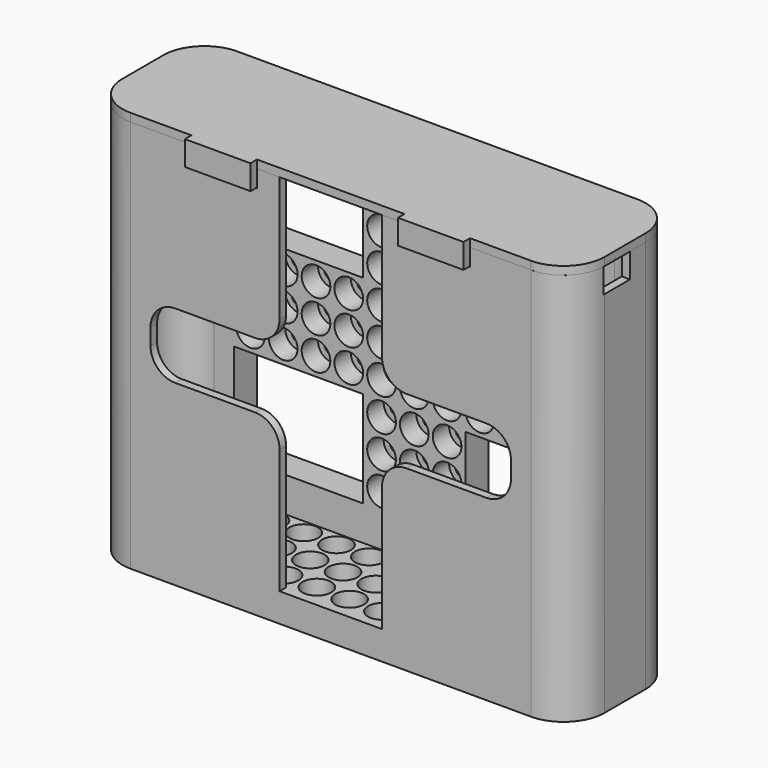
from build123d import *

# Parameters (mm, degrees)
SKETCH_R        = 2
PAD_DEPTH       = 2
SKETCH010_R     = 3.5
PAD008_DEPTH    = 5
PAD009_DEPTH    = 89
SKETCH013_R     = 3.5
SKETCH013_W     = 31.5
SKETCH013_H     = 23.5
POCKET_DEPTH    = 5
SKETCH014_R     = 2
SKETCH014_W     = 31.5
SKETCH014_H     = 23.5
POCKET001_DEPTH = 2
POCKET002_DEPTH = 2
FILLET_R        = 6
FILLET003_R     = 8
FILLET004_R     = 10
SKETCH017_W     = 16
SKETCH017_H     = 2
POCKET003_DEPTH = 2
SKETCH021_W     = 6
SKETCH021_H     = 8
POCKET004_DEPTH = 6
FILLET005_R     = 0.5
PAD010_DEPTH    = 2
SKETCH018_W     = 16
SKETCH018_H     = 2
PAD011_DEPTH    = 4
SKETCH019_W     = 16
SKETCH019_H     = 2
PAD012_DEPTH    = 2
SKETCH020_W     = 16
SKETCH020_H     = 2
PAD013_DEPTH    = 2
CHAMFER_SIZE    = 0.5


with BuildPart() as shell:
    # Sketch → Pad (new body)
    with BuildSketch(Plane.XY):
        Polygon((-58.85, -13.75), (58.85, -13.75), (58.85, 13.75), (58.85, 18.75), (-58.85, 18.75), (-58.85, 13.75), align=None)
        with Locations((8, -8)):
            Circle(SKETCH_R, mode=Mode.SUBTRACT)
        with Locations((16, -8)):
            Circle(SKETCH_R, mode=Mode.SUBTRACT)
        with Locations((24, -8)):
            Circle(SKETCH_R, mode=Mode.SUBTRACT)
        with Locations((32, -8)):
            Circle(SKETCH_R, mode=Mode.SUBTRACT)
        with Locations((40, -8)):
            Circle(SKETCH_R, mode=Mode.SUBTRACT)
        with Locations((48, -8)):
            Circle(SKETCH_R, mode=Mode.SUBTRACT)
        with Locations((48, 0)):
            Circle(SKETCH_R, mode=Mode.SUBTRACT)
        with Locations((40, 0)):
            Circle(SKETCH_R, mode=Mode.SUBTRACT)
        with Locations((32, 0)):
            Circle(SKETCH_R, mode=Mode.SUBTRACT)
        with Locations((24, 0)):
            Circle(SKETCH_R, mode=Mode.SUBTRACT)
        with Locations((16, 0)):
            Circle(SKETCH_R, mode=Mode.SUBTRACT)
        with Locations((8, 0)):
            Circle(SKETCH_R, mode=Mode.SUBTRACT)
        Circle(SKETCH_R, mode=Mode.SUBTRACT)
        with Locations((0, -8)):
            Circle(SKETCH_R, mode=Mode.SUBTRACT)
        with Locations((0, 8)):
            Circle(SKETCH_R, mode=Mode.SUBTRACT)
        with Locations((8, 8)):
            Circle(SKETCH_R, mode=Mode.SUBTRACT)
        with Locations((16, 8)):
            Circle(SKETCH_R, mode=Mode.SUBTRACT)
        with Locations((24, 8)):
            Circle(SKETCH_R, mode=Mode.SUBTRACT)
        with Locations((32, 8)):
            Circle(SKETCH_R, mode=Mode.SUBTRACT)
        with Locations((40, 8)):
            Circle(SKETCH_R, mode=Mode.SUBTRACT)
        with Locations((48, 8)):
            Circle(SKETCH_R, mode=Mode.SUBTRACT)
        with Locations((-8, -8)):
            Circle(SKETCH_R, mode=Mode.SUBTRACT)
        with Locations((-8, 0)):
            Circle(SKETCH_R, mode=Mode.SUBTRACT)
        with Locations((-8, 8)):
            Circle(SKETCH_R, mode=Mode.SUBTRACT)
        with Locations((-16, 8)):
            Circle(SKETCH_R, mode=Mode.SUBTRACT)
        with Locations((-16, 0)):
            Circle(SKETCH_R, mode=Mode.SUBTRACT)
        with Locations((-16, -8)):
            Circle(SKETCH_R, mode=Mode.SUBTRACT)
        with Locations((-24, -8)):
            Circle(SKETCH_R, mode=Mode.SUBTRACT)
        with Locations((-32, -8)):
            Circle(SKETCH_R, mode=Mode.SUBTRACT)
        with Locations((-40, -8)):
            Circle(SKETCH_R, mode=Mode.SUBTRACT)
        with Locations((-48, -8)):
            Circle(SKETCH_R, mode=Mode.SUBTRACT)
        with Locations((-48, 0)):
            Circle(SKETCH_R, mode=Mode.SUBTRACT)
        with Locations((-40, 0)):
            Circle(SKETCH_R, mode=Mode.SUBTRACT)
        with Locations((-32, 0)):
            Circle(SKETCH_R, mode=Mode.SUBTRACT)
        with Locations((-24, 0)):
            Circle(SKETCH_R, mode=Mode.SUBTRACT)
        with Locations((-24, 8)):
            Circle(SKETCH_R, mode=Mode.SUBTRACT)
        with Locations((-32, 8)):
            Circle(SKETCH_R, mode=Mode.SUBTRACT)
        with Locations((-40, 8)):
            Circle(SKETCH_R, mode=Mode.SUBTRACT)
        with Locations((-48, 8)):
            Circle(SKETCH_R, mode=Mode.SUBTRACT)
    extrude(amount=PAD_DEPTH)

    # Sketch010 (on Face43 of Pad) → Pad008 (join)
    with BuildSketch(Plane.XY.offset(2)):
        Polygon((-58.85, -13.75), (58.85, -13.75), (58.85, 13.75), (58.85, 18.75), (-58.85, 18.75), (-58.85, 13.75), align=None)
        with Locations((8, -8)):
            Circle(SKETCH010_R, mode=Mode.SUBTRACT)
        with Locations((16, -8)):
            Circle(SKETCH010_R, mode=Mode.SUBTRACT)
        with Locations((24, -8)):
            Circle(SKETCH010_R, mode=Mode.SUBTRACT)
        with Locations((32, -8)):
            Circle(SKETCH010_R, mode=Mode.SUBTRACT)
        with Locations((40, -8)):
            Circle(SKETCH010_R, mode=Mode.SUBTRACT)
        with Locations((48, -8)):
            Circle(SKETCH010_R, mode=Mode.SUBTRACT)
        with Locations((48, 0)):
            Circle(SKETCH010_R, mode=Mode.SUBTRACT)
        with Locations((40, 0)):
            Circle(SKETCH010_R, mode=Mode.SUBTRACT)
        with Locations((32, 0)):
            Circle(SKETCH010_R, mode=Mode.SUBTRACT)
        with Locations((24, 0)):
            Circle(SKETCH010_R, mode=Mode.SUBTRACT)
        with Locations((16, 0)):
            Circle(SKETCH010_R, mode=Mode.SUBTRACT)
        with Locations((8, 0)):
            Circle(SKETCH010_R, mode=Mode.SUBTRACT)
        Circle(SKETCH010_R, mode=Mode.SUBTRACT)
        with Locations((0, -8)):
            Circle(SKETCH010_R, mode=Mode.SUBTRACT)
        with Locations((0, 8)):
            Circle(SKETCH010_R, mode=Mode.SUBTRACT)
        with Locations((8, 8)):
            Circle(SKETCH010_R, mode=Mode.SUBTRACT)
        with Locations((16, 8)):
            Circle(SKETCH010_R, mode=Mode.SUBTRACT)
        with Locations((24, 8)):
            Circle(SKETCH010_R, mode=Mode.SUBTRACT)
        with Locations((32, 8)):
            Circle(SKETCH010_R, mode=Mode.SUBTRACT)
        with Locations((40, 8)):
            Circle(SKETCH010_R, mode=Mode.SUBTRACT)
        with Locations((48, 8)):
            Circle(SKETCH010_R, mode=Mode.SUBTRACT)
        with Locations((-8, -8)):
            Circle(SKETCH010_R, mode=Mode.SUBTRACT)
        with Locations((-8, 0)):
            Circle(SKETCH010_R, mode=Mode.SUBTRACT)
        with Locations((-8, 8)):
            Circle(SKETCH010_R, mode=Mode.SUBTRACT)
        with Locations((-16, 8)):
            Circle(SKETCH010_R, mode=Mode.SUBTRACT)
        with Locations((-16, 0)):
            Circle(SKETCH010_R, mode=Mode.SUBTRACT)
        with Locations((-16, -8)):
            Circle(SKETCH010_R, mode=Mode.SUBTRACT)
        with Locations((-24, -8)):
            Circle(SKETCH010_R, mode=Mode.SUBTRACT)
        with Locations((-32, -8)):
            Circle(SKETCH010_R, mode=Mode.SUBTRACT)
        with Locations((-40, -8)):
            Circle(SKETCH010_R, mode=Mode.SUBTRACT)
        with Locations((-48, -8)):
            Circle(SKETCH010_R, mode=Mode.SUBTRACT)
        with Locations((-48, 0)):
            Circle(SKETCH010_R, mode=Mode.SUBTRACT)
        with Locations((-40, 0)):
            Circle(SKETCH010_R, mode=Mode.SUBTRACT)
        with Locations((-32, 0)):
            Circle(SKETCH010_R, mode=Mode.SUBTRACT)
        with Locations((-24, 0)):
            Circle(SKETCH010_R, mode=Mode.SUBTRACT)
        with Locations((-24, 8)):
            Circle(SKETCH010_R, mode=Mode.SUBTRACT)
        with Locations((-32, 8)):
            Circle(SKETCH010_R, mode=Mode.SUBTRACT)
        with Locations((-40, 8)):
            Circle(SKETCH010_R, mode=Mode.SUBTRACT)
        with Locations((-48, 8)):
            Circle(SKETCH010_R, mode=Mode.SUBTRACT)
    extrude(amount=PAD008_DEPTH)

    # Sketch011 (on Face81 of Pad008) → Pad009 (join)
    with BuildSketch(Plane.XY.offset(7)):
        Polygon((56.85, -11.75), (56.85, 11.75), (-56.85, 11.75), (-56.85, -11.75), (-12.5, -11.75), (-12.5, -13.75), (-58.85, -13.75), (-58.85, 13.75), (-58.85, 18.75), (58.85, 18.75), (58.85, 13.75), (58.85, -13.75), (12.5, -13.75), (12.5, -11.75), align=None)
    extrude(amount=PAD009_DEPTH)

    # Sketch013 (on Face86 of Pad009) → Pocket (cut)
    with BuildSketch(Plane.XZ.offset(-11.75)):
        with Locations((0, 59.5)):
            Circle(SKETCH013_R)
        with Locations((0, 51.5)):
            Circle(SKETCH013_R)
        with Locations((8, 51.5)):
            Circle(SKETCH013_R)
        with Locations((16, 51.5)):
            Circle(SKETCH013_R)
        with Locations((24, 51.5)):
            Circle(SKETCH013_R)
        with Locations((32, 51.5)):
            Circle(SKETCH013_R)
        with Locations((-40, 51.5)):
            Circle(SKETCH013_R)
        with Locations((-32, 51.5)):
            Circle(SKETCH013_R)
        with Locations((-24, 51.5)):
            Circle(SKETCH013_R)
        with Locations((-16, 51.5)):
            Circle(SKETCH013_R)
        with Locations((-8, 51.5)):
            Circle(SKETCH013_R)
        with Locations((8, 35.5)):
            Circle(SKETCH013_R)
        with Locations((-8, 35.5)):
            Circle(SKETCH013_R)
        with Locations((0, 27.5)):
            Circle(SKETCH013_R)
        with Locations((-8, 19.5)):
            Circle(SKETCH013_R)
        with Locations((8, 19.5)):
            Circle(SKETCH013_R)
        with Locations((8, 67.5)):
            Circle(SKETCH013_R)
        with Locations((-8, 67.5)):
            Circle(SKETCH013_R)
        with Locations((0, 75.5)):
            Circle(SKETCH013_R)
        with Locations((-8, 83.5)):
            Circle(SKETCH013_R)
        with Locations((8, 83.5)):
            Circle(SKETCH013_R)
        with Locations((40, 51.5)):
            Circle(SKETCH013_R)
        with Locations((8, 59.5)):
            Circle(SKETCH013_R)
        with Locations((16, 59.5)):
            Circle(SKETCH013_R)
        with Locations((24, 59.5)):
            Circle(SKETCH013_R)
        with Locations((32, 59.5)):
            Circle(SKETCH013_R)
        with Locations((40, 59.5)):
            Circle(SKETCH013_R)
        with Locations((40, 43.5)):
            Circle(SKETCH013_R)
        with Locations((32, 43.5)):
            Circle(SKETCH013_R)
        with Locations((24, 43.5)):
            Circle(SKETCH013_R)
        with Locations((16, 43.5)):
            Circle(SKETCH013_R)
        with Locations((8, 43.5)):
            Circle(SKETCH013_R)
        with Locations((-8, 43.5)):
            Circle(SKETCH013_R)
        with Locations((-16, 43.5)):
            Circle(SKETCH013_R)
        with Locations((-24, 43.5)):
            Circle(SKETCH013_R)
        with Locations((-32, 43.5)):
            Circle(SKETCH013_R)
        with Locations((-40, 43.5)):
            Circle(SKETCH013_R)
        with Locations((-40, 59.5)):
            Circle(SKETCH013_R)
        with Locations((-32, 59.5)):
            Circle(SKETCH013_R)
        with Locations((-24, 59.5)):
            Circle(SKETCH013_R)
        with Locations((-16, 59.5)):
            Circle(SKETCH013_R)
        with Locations((-8, 59.5)):
            Circle(SKETCH013_R)
        with Locations((-8, 27.5)):
            Circle(SKETCH013_R)
        with Locations((0, 35.5)):
            Circle(SKETCH013_R)
        with Locations((8, 27.5)):
            Circle(SKETCH013_R)
        with Locations((0, 43.5)):
            Circle(SKETCH013_R)
        with Locations((-8, 75.5)):
            Circle(SKETCH013_R)
        with Locations((0, 83.5)):
            Circle(SKETCH013_R)
        with Locations((8, 75.5)):
            Circle(SKETCH013_R)
        with Locations((0, 67.5)):
            Circle(SKETCH013_R)
        with Locations((0, 19.5)):
            Circle(SKETCH013_R)
        with Locations((-28.25, 75.75)):
            Rectangle(SKETCH013_W, SKETCH013_H)
        with Locations((-28.25, 27.25)):
            Rectangle(SKETCH013_W, SKETCH013_H)
        with Locations((28.25, 27.25)):
            Rectangle(SKETCH013_W, SKETCH013_H)
        with Locations((28.25, 75.75)):
            Rectangle(SKETCH013_W, SKETCH013_H)
    extrude(amount=-POCKET_DEPTH, mode=Mode.SUBTRACT)

    # Sketch014 (on Face130 of Pad009) → Pocket001 (cut)
    with BuildSketch(Plane(origin=(0, 18.75, 0), x_dir=(-1, 0, 0), z_dir=(0, 1, 0))):
        with Locations((0, 51.5)):
            Circle(SKETCH014_R)
        with Locations((0, 59.5)):
            Circle(SKETCH014_R)
        with Locations((-8, 67.5)):
            Circle(SKETCH014_R)
        with Locations((0, 75.5)):
            Circle(SKETCH014_R)
        with Locations((8, 67.5)):
            Circle(SKETCH014_R)
        with Locations((8, 83.5)):
            Circle(SKETCH014_R)
        with Locations((-8, 83.5)):
            Circle(SKETCH014_R)
        with Locations((-8, 51.5)):
            Circle(SKETCH014_R)
        with Locations((-16, 51.5)):
            Circle(SKETCH014_R)
        with Locations((-24, 51.5)):
            Circle(SKETCH014_R)
        with Locations((-32, 51.5)):
            Circle(SKETCH014_R)
        with Locations((-40, 51.5)):
            Circle(SKETCH014_R)
        with Locations((8, 51.5)):
            Circle(SKETCH014_R)
        with Locations((16, 51.5)):
            Circle(SKETCH014_R)
        with Locations((24, 51.5)):
            Circle(SKETCH014_R)
        with Locations((32, 51.5)):
            Circle(SKETCH014_R)
        with Locations((40, 51.5)):
            Circle(SKETCH014_R)
        with Locations((0, 43.5)):
            Circle(SKETCH014_R)
        with Locations((-8, 35.5)):
            Circle(SKETCH014_R)
        with Locations((8, 35.5)):
            Circle(SKETCH014_R)
        with Locations((0, 27.5)):
            Circle(SKETCH014_R)
        with Locations((-8, 19.5)):
            Circle(SKETCH014_R)
        with Locations((8, 19.5)):
            Circle(SKETCH014_R)
        with Locations((-8, 75.5)):
            Circle(SKETCH014_R)
        with Locations((8, 75.5)):
            Circle(SKETCH014_R)
        with Locations((0, 67.5)):
            Circle(SKETCH014_R)
        with Locations((8, 59.5)):
            Circle(SKETCH014_R)
        with Locations((-8, 59.5)):
            Circle(SKETCH014_R)
        with Locations((-8, 27.5)):
            Circle(SKETCH014_R)
        with Locations((8, 27.5)):
            Circle(SKETCH014_R)
        with Locations((0, 35.5)):
            Circle(SKETCH014_R)
        with Locations((-8, 43.5)):
            Circle(SKETCH014_R)
        with Locations((8, 43.5)):
            Circle(SKETCH014_R)
        with Locations((16, 59.5)):
            Circle(SKETCH014_R)
        with Locations((24, 59.5)):
            Circle(SKETCH014_R)
        with Locations((32, 59.5)):
            Circle(SKETCH014_R)
        with Locations((40, 59.5)):
            Circle(SKETCH014_R)
        with Locations((-16, 59.5)):
            Circle(SKETCH014_R)
        with Locations((-24, 59.5)):
            Circle(SKETCH014_R)
        with Locations((-32, 59.5)):
            Circle(SKETCH014_R)
        with Locations((-40, 59.5)):
            Circle(SKETCH014_R)
        with Locations((-40, 43.5)):
            Circle(SKETCH014_R)
        with Locations((-32, 43.5)):
            Circle(SKETCH014_R)
        with Locations((-24, 43.5)):
            Circle(SKETCH014_R)
        with Locations((-16, 43.5)):
            Circle(SKETCH014_R)
        with Locations((16, 43.5)):
            Circle(SKETCH014_R)
        with Locations((24, 43.5)):
            Circle(SKETCH014_R)
        with Locations((32, 43.5)):
            Circle(SKETCH014_R)
        with Locations((40, 43.5)):
            Circle(SKETCH014_R)
        with Locations((0, 19.5)):
            Circle(SKETCH014_R)
        with Locations((0, 83.5)):
            Circle(SKETCH014_R)
        with Locations((-28.25, 75.75)):
            Rectangle(SKETCH014_W, SKETCH014_H)
        with Locations((-28.25, 27.25)):
            Rectangle(SKETCH014_W, SKETCH014_H)
        with Locations((28.25, 27.25)):
            Rectangle(SKETCH014_W, SKETCH014_H)
        with Locations((28.25, 75.75)):
            Rectangle(SKETCH014_W, SKETCH014_H)
    extrude(amount=-POCKET001_DEPTH, mode=Mode.SUBTRACT)

    # Sketch015 (on Face2 of Pocket001) → Pocket002 (cut)
    with BuildSketch(Plane.XZ.offset(13.75)):
        with BuildLine():
            Line((-38, 43.5), (38, 43.5))
            ThreePointArc((38, 43.5), (42.242641, 45.257359), (44, 49.5))
            Line((44, 49.5), (44, 53.5))
            ThreePointArc((44, 53.5), (42.242641, 57.742641), (38, 59.5))
            Line((38, 59.5), (-38, 59.5))
            ThreePointArc((-38, 59.5), (-42.242641, 57.742641), (-44, 53.5))
            Line((-44, 53.5), (-44, 49.5))
            ThreePointArc((-44, 49.5), (-42.242641, 45.257359), (-38, 43.5))
        make_face()
    extrude(amount=-POCKET002_DEPTH, mode=Mode.SUBTRACT)

    # Fillet
    fillet_edges = [shell.edges().sort_by_distance(p)[0] for p in [
        (12.5, -12.75, 59.5),
        (12.5, -12.75, 43.5),
        (-12.5, -12.75, 43.5),
        (-12.5, -12.75, 59.5),
    ]]
    fillet(fillet_edges, radius=FILLET_R)

    # Fillet003
    fillet003_edges = [shell.edges().sort_by_distance(p)[0] for p in [
        (56.85, 11.75, 51.5),
        (-56.85, 11.75, 51.5),
        (-56.85, -11.75, 51.5),
        (56.85, -11.75, 51.5),
    ]]
    fillet(fillet003_edges, radius=FILLET003_R)

    # Fillet004
    fillet004_edges = [shell.edges().sort_by_distance(p)[0] for p in [
        (58.85, -13.75, 48),
        (-58.85, -13.75, 48),
        (58.85, 18.75, 48),
        (-58.85, 18.75, 48),
    ]]
    fillet(fillet004_edges, radius=FILLET004_R)

    # Sketch017 (on Face2 of Fillet004) → Pocket003 (cut)
    with BuildSketch(Plane.XZ.offset(13.75)):
        with Locations((-26, 93)):
            Rectangle(SKETCH017_W, SKETCH017_H)
        with Locations((26, 93)):
            Rectangle(SKETCH017_W, SKETCH017_H)
    extrude(amount=-POCKET003_DEPTH, mode=Mode.SUBTRACT)

    # Sketch021 (on Face1 of Pocket003) → Pocket004 (cut)
    with BuildSketch(Plane.XY.offset(96)):
        with Locations((-57.85, 0)):
            Rectangle(SKETCH021_W, SKETCH021_H)
        with Locations((57.85, 0)):
            Rectangle(SKETCH021_W, SKETCH021_H)
    extrude(amount=-POCKET004_DEPTH, mode=Mode.SUBTRACT)

    # Fillet005
    fillet005_edges = [shell.edges().sort_by_distance(p)[0] for p in [
        (-26, -13.75, 94),
        (-26, -13.75, 92),
        (26, -13.75, 94),
        (26, -13.75, 92),
    ]]
    fillet(fillet005_edges, radius=FILLET005_R)


with BuildPart() as top:
    # Sketch007 → Pad010 (new body)
    with BuildSketch(Plane.XY):
        with BuildLine():
            Line((58.85, -3.75), (58.85, 3.75))
            Line((58.85, 3.75), (58.85, 8.75))
            ThreePointArc((58.85, 8.75), (55.921069, 15.821067), (48.850003, 18.75))
            Line((-48.85, 18.75), (48.850003, 18.75))
            ThreePointArc((-48.85, 18.75), (-55.921068, 15.821068), (-58.85, 8.75))
            Line((-58.85, 3.75), (-58.85, 8.75))
            Line((-58.85, 3.75), (-58.85, -3.75))
            ThreePointArc((-58.85, -3.75), (-55.921068, -10.821068), (-48.85, -13.75))
            Line((-48.85, -13.75), (-34, -13.75))
            Line((-34, -13.75), (-34, -15.75))
            Line((-34, -15.75), (-18, -15.75))
            Line((-18, -15.75), (-18, -13.75))
            Line((-18, -13.75), (18, -13.75))
            Line((18, -13.75), (18, -15.75))
            Line((18, -15.75), (34, -15.75))
            Line((34, -15.75), (34, -13.75))
            Line((48.85, -13.75), (34, -13.75))
            ThreePointArc((48.85, -13.75), (55.921068, -10.821068), (58.85, -3.75))
        make_face()
    extrude(amount=PAD010_DEPTH)

    # Sketch018 (on Face12 of Pad010) → Pad011 (join)
    with BuildSketch(Plane(origin=(0, 0, 0), x_dir=(1, 0, 0), z_dir=(0, 0, -1))):
        with Locations((-26, 14.75)):
            Rectangle(SKETCH018_W, SKETCH018_H)
        with Locations((26, 14.75)):
            Rectangle(SKETCH018_W, SKETCH018_H)
    extrude(amount=PAD011_DEPTH)

    # Sketch019 (on Face7 of Pad011) → Pad012 (join)
    with BuildSketch(Plane(origin=(0, -13.75, 0), x_dir=(-1, 0, 0), z_dir=(0, 1, 0))):
        with Locations((-26, -3)):
            Rectangle(SKETCH019_W, SKETCH019_H)
    extrude(amount=PAD012_DEPTH)

    # Sketch020 (on Face9 of Pad012) → Pad013 (join)
    with BuildSketch(Plane(origin=(0, -13.75, 0), x_dir=(-1, 0, 0), z_dir=(0, 1, 0))):
        with Locations((26, -3)):
            Rectangle(SKETCH020_W, SKETCH020_H)
    extrude(amount=PAD013_DEPTH)

    # Chamfer
    chamfer_edges = [top.edges().sort_by_distance(p)[0] for p in [
        (26, -11.75, -2),
        (26, -11.75, -4),
        (-26, -11.75, -2),
        (-26, -11.75, -4),
    ]]
    chamfer(chamfer_edges, length=CHAMFER_SIZE)


with BuildPart() as top_1:
    # Body001 placement: moved
    add(top.part.moved(Location((0, 0, 96))))


solid = Compound([shell.part, top_1.part])
